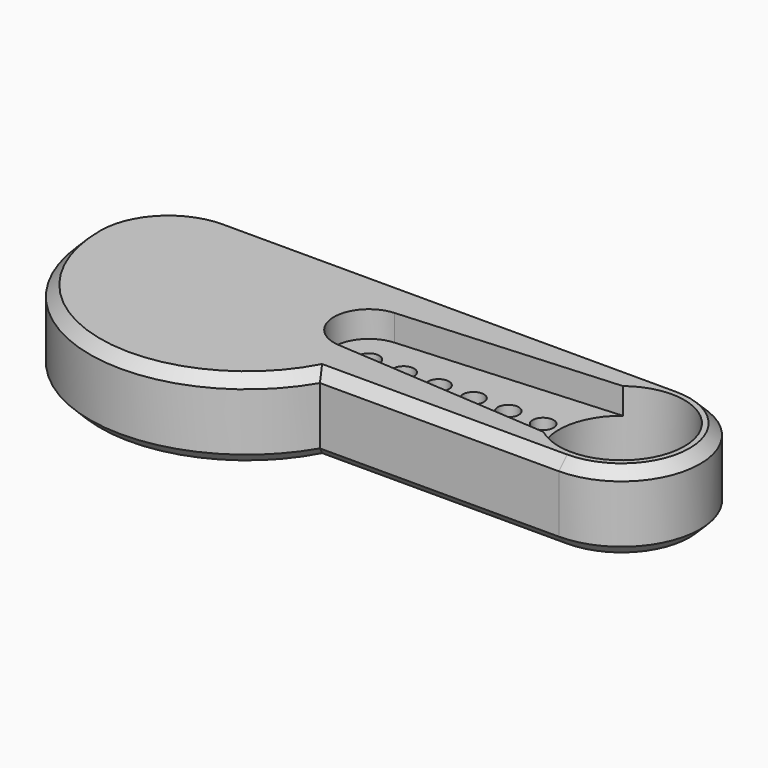
from build123d import *

# Parameters (mm, degrees)
PAD_DEPTH       = 4.5
SKETCH001_R     = 3.6
POCKET_DEPTH    = 4.501
POCKET001_DEPTH = 1.5
SKETCH003_R     = 0.6
POCKET002_DEPTH = 3.001
CHAMFER_SIZE    = 0.6


with BuildPart() as part:
    # Sketch → Pad (new body)
    with BuildSketch(Plane.XY):
        with BuildLine():
            ThreePointArc((0, -4.5), (4.5, 0), (0, 4.5))
            Line((0, 4.5), (-26, 4.5))
            ThreePointArc((-26, 4.5), (-29.181981, 3.181981), (-30.5, 0))
            ThreePointArc((-30.5, 0), (-23.829371, -8.693332), (-13.705771, -4.5))
            Line((0, -4.5), (-13.705771, -4.5))
        make_face()
    extrude(amount=PAD_DEPTH)

    # Sketch001 (on Face7 of Pad) → Pocket (cut, through all)
    with BuildSketch(Plane.XY.offset(4.5)):
        Circle(SKETCH001_R)
    extrude(amount=-POCKET_DEPTH, mode=Mode.SUBTRACT)

    # Sketch002 (on Face5 of Pocket) → Pocket001 (cut)
    with BuildSketch(Plane.XY.offset(4.5)):
        with BuildLine():
            ThreePointArc((-14.63696, 1.995305), (-16.5, 0), (-14.63696, -1.995305))
            Line((-14.63696, -1.995305), (0, -3))
            Line((0, 3), (0, -3))
            Line((-14.63696, 1.995305), (0, 3))
        make_face()
    extrude(amount=-POCKET001_DEPTH, mode=Mode.SUBTRACT)

    # Sketch003 (on Face12 of Pocket001) → Pocket002 (cut, through all)
    with BuildSketch(Plane.XY.offset(3)):
        with Locations((-14.5, 0)):
            Circle(SKETCH003_R)
        with Locations((-12.5, 0)):
            Circle(SKETCH003_R)
        with Locations((-10.5, 0)):
            Circle(SKETCH003_R)
        with Locations((-8.5, 0)):
            Circle(SKETCH003_R)
        with Locations((-6.5, 0)):
            Circle(SKETCH003_R)
        with Locations((-4.5, 0)):
            Circle(SKETCH003_R)
    extrude(amount=-POCKET002_DEPTH, mode=Mode.SUBTRACT)

    # Chamfer
    chamfer_edges = [part.edges().sort_by_distance(p)[0] for p in [
        (-23.829371, -8.693332, 4.5),
        (-23.829371, -8.693332, 0),
    ]]
    chamfer(chamfer_edges, length=CHAMFER_SIZE)


solid = part.part
